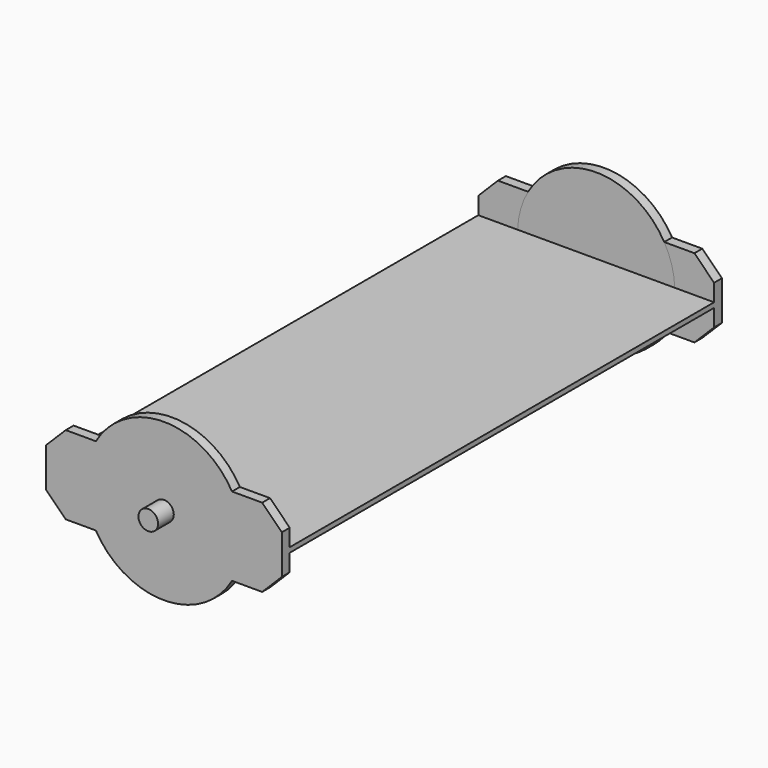
from build123d import *

# Parameters (mm, degrees)
F0_W      = 152.4
F0_H      = 3.175
F1_DEPTH  = 177.8
F2_W      = 152.4
F2_H      = 6.35
F2_H_2    = 6.349996
F3_DEPTH  = 25.4
F4_SIZE   = 12.7
F5_R      = 6.35
F6_DEPTH  = 12.7
F7_R      = 6.35
F8_DEPTH  = 12.7
F9_R      = 50.8
F10_DEPTH = 6.35
F11_R     = 50.8
F12_DEPTH = 6.35


with BuildPart() as f1:
    # F0 (on Front) → F1 (new body, symmetric)
    with BuildSketch(Plane.XZ):
        Rectangle(F0_W, F0_H)
    extrude(amount=F1_DEPTH, both=True)

    # F2 (on Top) → F3 (join, symmetric)
    with BuildSketch(Plane.XY):
        with Locations((0, -174.625)):
            Rectangle(F2_W, F2_H)
        with Locations((0, 174.625002)):
            Rectangle(F2_W, F2_H_2)
    extrude(amount=F3_DEPTH, both=True)

    # F4
    f4_edges = [f1.edges().sort_by_distance(p)[0] for p in [
        (76.2, -174.625, 25.4),
        (-76.2, -174.625, 25.4),
        (-76.2, -174.625, -25.4),
        (76.2, -174.625, -25.4),
        (76.2, 174.625002, 25.4),
        (-76.2, 174.625002, 25.4),
        (76.2, 174.625002, -25.4),
        (-76.2, 174.625002, -25.4),
    ]]
    chamfer(f4_edges, length=F4_SIZE)

    # F5 (on face) → F6 (join)
    with BuildSketch(Plane(origin=(0, 177.8, 0), x_dir=(-1, 0, 0), z_dir=(0, 1, 0))):
        Circle(F5_R)
    extrude(amount=F6_DEPTH)

    # F7 (on face) → F8 (join)
    with BuildSketch(Plane.XZ.offset(177.8)):
        Circle(F7_R)
    extrude(amount=F8_DEPTH)

    # F9 (on face) → F10 (join)
    with BuildSketch(Plane(origin=(0, 177.8, 0), x_dir=(-1, 0, 0), z_dir=(0, 1, 0))):
        Circle(F9_R)
    extrude(amount=-F10_DEPTH)

    # F11 (on face) → F12 (join)
    with BuildSketch(Plane.XZ.offset(177.8)):
        Circle(F11_R)
    extrude(amount=-F12_DEPTH)


solid = f1.part
